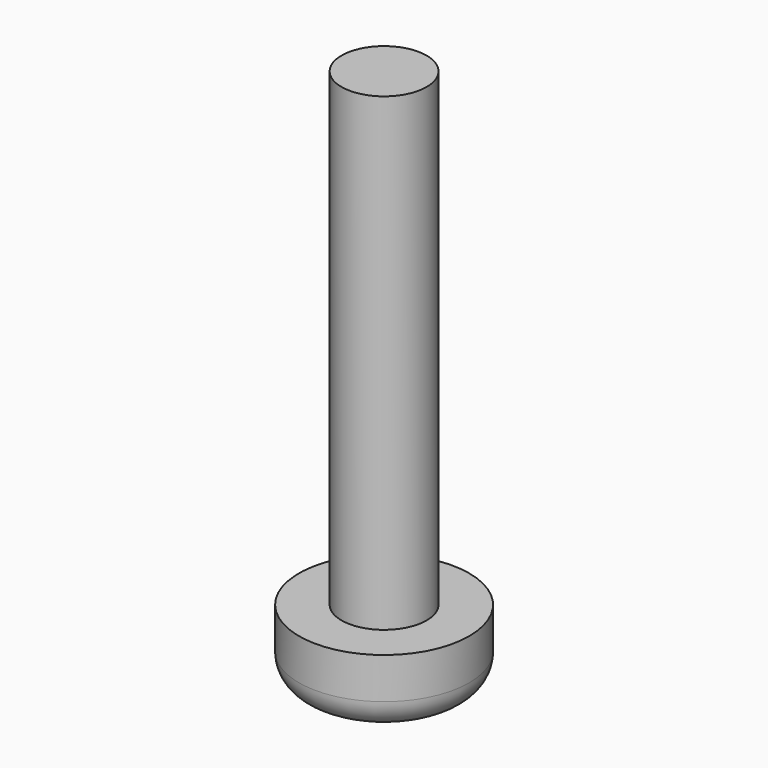
from build123d import *

# Parameters (mm, degrees)
F0_R     = 1.45
F1_DEPTH = 16
F2_R     = 2.9
F3_DEPTH = 2.4
F4_R     = 1
F5_W     = 1
F5_H     = 1
F6_DEPTH = 1.5


with BuildPart() as f1:
    # F0 (on Top) → F1 (new body)
    with BuildSketch(Plane.XY):
        Circle(F0_R)
    extrude(amount=F1_DEPTH)

    # F2 (on Top) → F3 (join)
    with BuildSketch(Plane.XY):
        Circle(F2_R)
    extrude(amount=-F3_DEPTH)

    # F4
    f4_edges = [f1.edges().sort_by_distance(p)[0] for p in [
        (-2.9, 0, -2.4),
    ]]
    fillet(f4_edges, radius=F4_R)

    # F5 (on face) → F6 (cut)
    with BuildSketch(Plane(origin=(0, 0, -2.4), x_dir=(1, 0, 0), z_dir=(0, 0, -1))):
        with Locations((1, 0)):
            Rectangle(F5_W, F5_H)
        Rectangle(F5_W, F5_H)
        with Locations((0, 1)):
            Rectangle(F5_W, F5_H)
        with Locations((-1, 0)):
            Rectangle(F5_W, F5_H)
        with Locations((0, -1)):
            Rectangle(F5_W, F5_H)
    extrude(amount=-F6_DEPTH, mode=Mode.SUBTRACT)


solid = f1.part
